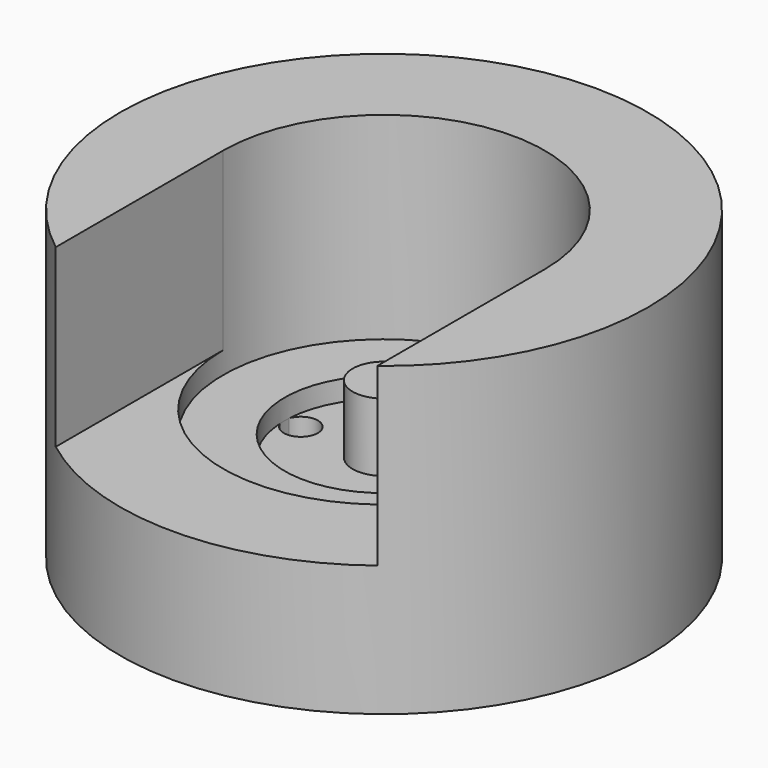
from build123d import *

# Parameters (mm, degrees)
F0_R     = 49.2125
F1_DEPTH = 57.15
F2_R     = 18.542
F3_DEPTH = 40.64
F4_DEPTH = 36.83
F5_DEPTH = 32.766
F6_R     = 5.842
F7_DEPTH = 12.7
F9_DEPTH = 16.511


with BuildPart() as f1:
    # F0 (on Top) → F1 (new body)
    with BuildSketch(Plane.XY):
        Circle(F0_R)
    extrude(amount=-F1_DEPTH)

    # F2 (on face) → F3 (cut)
    with BuildSketch(Plane.XY):
        Circle(F2_R)
    extrude(amount=-F3_DEPTH, mode=Mode.SUBTRACT)

    # F2 (on face) → F4 (cut)
    with BuildSketch(Plane.XY):
        with BuildLine():
            ThreePointArc((-29.972, 0), (0, -29.972), (29.972, 0))
            ThreePointArc((29.972, 0), (0, 29.972), (-29.972, 0))
        make_face()
        Circle(F2_R, mode=Mode.SUBTRACT)
    extrude(amount=-F4_DEPTH, mode=Mode.SUBTRACT)

    # F2 (on face) → F5 (cut)
    with BuildSketch(Plane.XY):
        with BuildLine():
            Line((29.972, -39.0326705754), (29.972, 0))
            ThreePointArc((29.972, 0), (0, -29.972), (-29.972, 0))
            Line((-29.972, 0), (-29.972, -39.0326705754))
            ThreePointArc((-29.972, -39.0326705754), (0, -49.2125), (29.972, -39.0326705754))
        make_face()
    extrude(amount=-F5_DEPTH, mode=Mode.SUBTRACT)

    # F6 (on face) → F7 (join)
    with BuildSketch(Plane.XY.offset(-40.64)):
        Circle(F6_R)
    extrude(amount=F7_DEPTH)

    # F8 (on face) → F9 (cut, through all)
    with BuildSketch(Plane.XY.offset(-40.64)):
        with BuildLine():
            ThreePointArc((-18.5140256757, -1.0181440372), (-14.9907707511, -3.1328009848), (-12.3317, 0))
            ThreePointArc((-12.3317, 0), (-14.9907707511, 3.1328009848), (-18.5140256757, 1.0181440372))
            ThreePointArc((-18.5140256757, 1.0181440372), (-18.542, 0), (-18.5140256757, -1.0181440372))
        make_face()
        with BuildLine():
            ThreePointArc((18.542, 0), (18.5350050995, 0.5092641366), (18.5140256757, 1.0181440372))
            ThreePointArc((18.5140256757, 1.0181440372), (12.3317, 0), (18.5140256757, -1.0181440372))
            ThreePointArc((18.5140256757, -1.0181440372), (18.5350050995, -0.5092641366), (18.542, 0))
        make_face()
    extrude(amount=-F9_DEPTH, mode=Mode.SUBTRACT)


solid = f1.part
